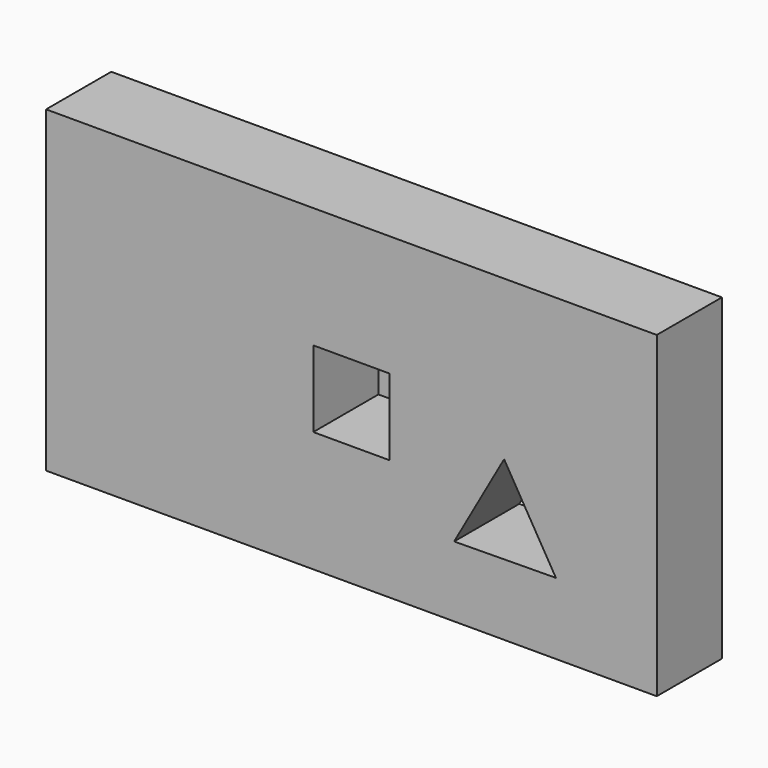
from build123d import *

# Parameters (mm, degrees)
F0_W     = 152.4
F0_H     = 79.375
F0_R     = 12.7
F1_DEPTH = 20.32
F2_DEPTH = 31.75
F3_DEPTH = 45.974
F4_DEPTH = 84.582
F5_DEPTH = 31.75


with BuildPart() as f1:
    # F0 (on Front) → F1 (new body)
    with BuildSketch(Plane.XZ):
        with Locations((-31.75, 0)):
            Rectangle(F0_W, F0_H)
        Polygon((-6.119448, -22.128553), (6.35, 0), (19.279165, -21.863135), align=None, mode=Mode.SUBTRACT)
        with Locations((-82.55, 0)):
            Circle(F0_R, mode=Mode.SUBTRACT)
        Polygon((-22.225, 9.525), (-22.225, 0), (-22.225, -9.525), (-41.275, -9.525), (-41.275, 0), (-41.275, 9.525), align=None, mode=Mode.SUBTRACT)
        with Locations((-82.55, 0)):
            Circle(F0_R)
        Polygon((-22.225, -9.525), (-22.225, 0), (-31.75, 0), (-41.275, 0), (-41.275, -9.525), align=None)
        Polygon((-31.75, 0), (-22.225, 0), (-22.225, 9.525), (-41.275, 9.525), (-41.275, 0), align=None)
        Polygon((19.279165, -21.863135), (6.35, 0), (-6.119448, -22.128553), align=None)
    extrude(amount=F1_DEPTH)

    # F0 (on Front) → F2 (join)
    with BuildSketch(Plane.XZ):
        with Locations((-82.55, 0)):
            Circle(F0_R)
    extrude(amount=-F2_DEPTH)

    # F0 (on Front) → F3 (cut)
    with BuildSketch(Plane.XZ):
        Polygon((19.279165, -21.863135), (6.35, 0), (-6.119448, -22.128553), align=None)
    extrude(amount=F3_DEPTH, mode=Mode.SUBTRACT)

    # F0 (on Front) → F4 (cut)
    with BuildSketch(Plane.XZ):
        Polygon((-22.225, -9.525), (-22.225, 0), (-31.75, 0), (-41.275, 0), (-41.275, -9.525), align=None)
        Polygon((-31.75, 0), (-22.225, 0), (-22.225, 9.525), (-41.275, 9.525), (-41.275, 0), align=None)
    extrude(amount=F4_DEPTH, mode=Mode.SUBTRACT)


with BuildPart() as f5:
    # F0 (on Front) → F5 (new body)
    with BuildSketch(Plane.XZ):
        Polygon((-22.225, -9.525), (-22.225, 0), (-31.75, 0), (-41.275, 0), (-41.275, -9.525), align=None)
        Polygon((-31.75, 0), (-22.225, 0), (-22.225, 9.525), (-41.275, 9.525), (-41.275, 0), align=None)
    extrude(amount=-F5_DEPTH)


solid = Compound([f1.part, f5.part])
